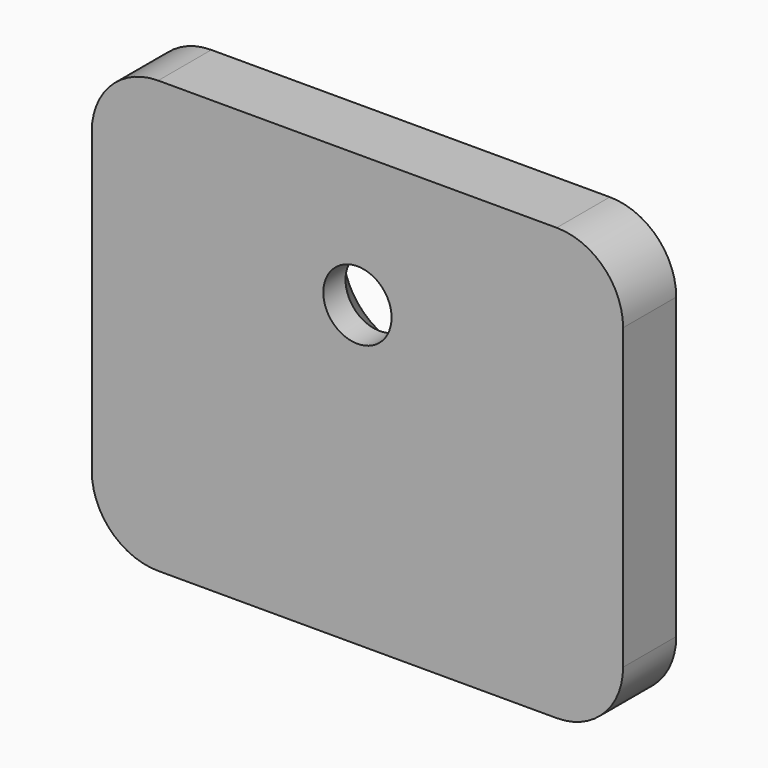
from build123d import *

# Parameters (mm, degrees)
F0_W           = 25.4
F0_H           = 20.6375
F1_DEPTH       = 3.175
F3_D           = 3.2639
F3_CSINK_D     = 6.477
F3_CSINK_ANGLE = 82
F4_R           = 3.175


with BuildPart() as f1:
    # F0 (on Front) → F1 (new body)
    with BuildSketch(Plane.XZ):
        Rectangle(F0_W, F0_H)
    extrude(amount=F1_DEPTH)

    # F3 (through all)
    with Locations(Plane(origin=(0, 0, 0), x_dir=(-1, 0, 0), z_dir=(0, 1, 0))):
        with Locations((0, 3.96875)):
            CounterSinkHole(F3_D / 2, F3_CSINK_D / 2, counter_sink_angle=F3_CSINK_ANGLE)

    # F4
    f4_edges = [f1.edges().sort_by_distance(p)[0] for p in [
        (12.7, -1.5875, 10.31875),
        (-12.7, -1.5875, 10.31875),
        (-12.7, -1.5875, -10.31875),
        (12.7, -1.5875, -10.31875),
    ]]
    fillet(f4_edges, radius=F4_R)


solid = f1.part
